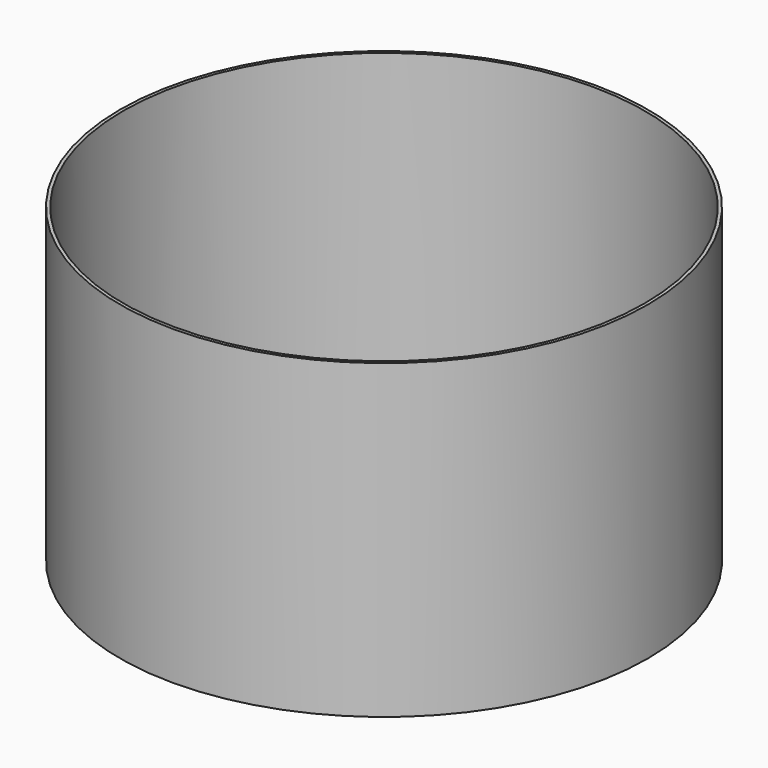
from build123d import *

# Parameters (mm, degrees)
F0_R     = 805
F0_R_2   = 795
F1_DEPTH = 950
F2_R     = 795
F3_DEPTH = 2000


with BuildPart() as f1:
    # F0 (on Top) → F1 (new body)
    with BuildSketch(Plane.XY):
        Circle(F0_R)
        Circle(F0_R_2, mode=Mode.SUBTRACT)
        Circle(F0_R_2)
    extrude(amount=F1_DEPTH)

    # F2 (on face) → F3 (cut)
    with BuildSketch(Plane.XY.offset(950)):
        Circle(F2_R)
    extrude(amount=-F3_DEPTH, mode=Mode.SUBTRACT)


solid = f1.part
